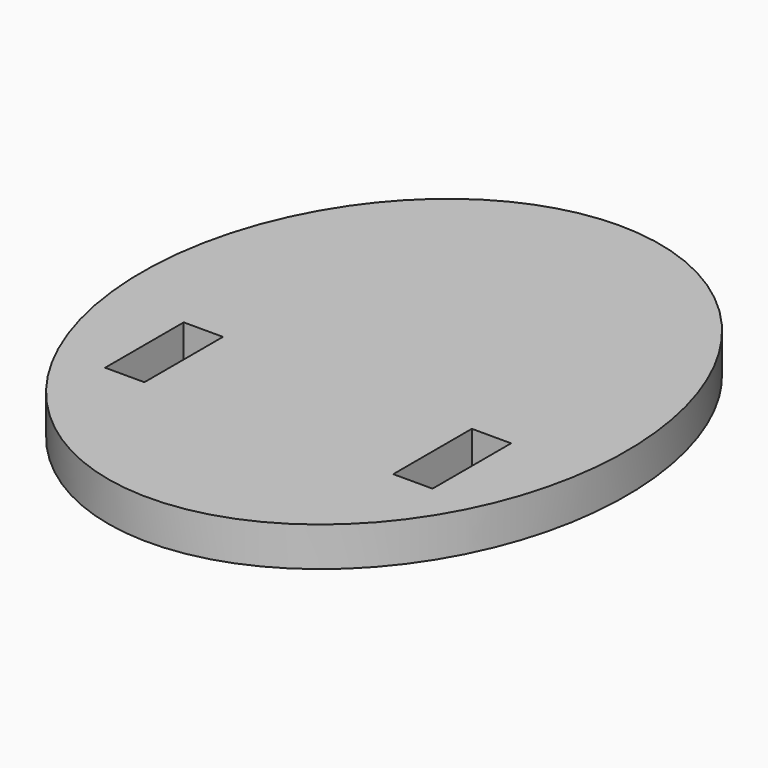
from build123d import *

# Parameters (mm, degrees)
PAD_DEPTH    = 6
SKETCH001_W  = 6
SKETCH001_H  = 15
POCKET_DEPTH = 239.341952


with BuildPart() as part:
    # Sketch → Pad (new body)
    with BuildSketch(Plane.XY):
        with BuildLine():
            add(Edge.make_bspline(
                [(0, 45), (-64.08588, 45), (-32.04294, -22.5), (0, -90), (32.04294, -22.5), (64.08588, 45), (0, 45)],
                knots=[0, 0, 0, 2.094395, 2.094395, 4.18879, 4.18879, 6.283185, 6.283185, 6.283185], degree=2, weights=[1, 0.5, 1, 0.5, 1, 0.5, 1]))
        make_face()
    extrude(amount=PAD_DEPTH)

    # Sketch001 (on Face3 of Pad) → Pocket (cut, through all)
    with BuildSketch(Plane.XY.offset(6)):
        with Locations((-22, -14.5)):
            Rectangle(SKETCH001_W, SKETCH001_H)
    pocket = extrude(amount=-POCKET_DEPTH, mode=Mode.SUBTRACT)

    # Mirrored: Pocket across Sketch001 V_Axis
    add(pocket.mirror(Plane(origin=(0, 0, 6), x_dir=(0, 0, 1), z_dir=(1, 0, 0))), mode=Mode.SUBTRACT)


solid = part.part
